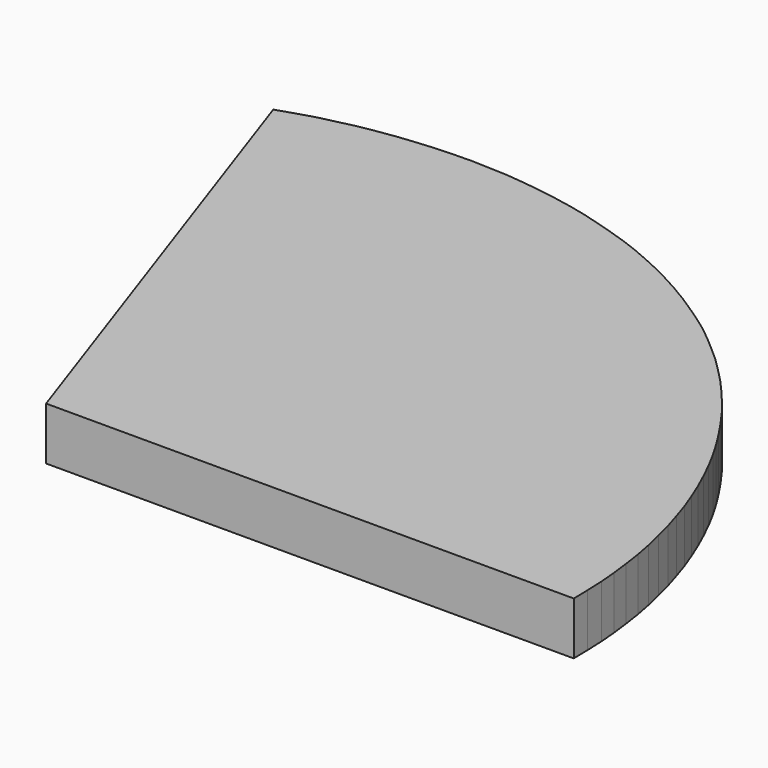
from build123d import *

# Parameters (mm, degrees)
PAD_DEPTH = 5


with BuildPart() as part:
    # Sketch006 → Pad (new body)
    with BuildSketch(Plane.XY):
        with BuildLine():
            add(Edge.make_bspline(
                [(285.84324, -421.092099), (335.83185, -421.092099)],
                knots=[0, 0, 141.7, 141.7], degree=1))
            add(Edge.make_bspline(
                [(335.796573, -419.398766), (335.83185, -421.092099)],
                knots=[0, 0, 4.801042, 4.801042], degree=1))
            add(Edge.make_bspline(
                [(335.726017, -417.670155), (335.796573, -419.398766)],
                knots=[0, 0, 4.90408, 4.90408], degree=1))
            add(Edge.make_bspline(
                [(335.584906, -416.012099), (335.726017, -417.670155)],
                knots=[0, 0, 4.716991, 4.716991], degree=1))
            add(Edge.make_bspline(
                [(335.373239, -414.318766), (335.584906, -416.012099)],
                knots=[0, 0, 4.837355, 4.837355], degree=1))
            add(Edge.make_bspline(
                [(335.126295, -412.625433), (335.373239, -414.318766)],
                knots=[0, 0, 4.850773, 4.850773], degree=1))
            add(Edge.make_bspline(
                [(334.808795, -410.967377), (335.126295, -412.625433)],
                knots=[0, 0, 4.785394, 4.785394], degree=1))
            add(Edge.make_bspline(
                [(334.420739, -409.309322), (334.808795, -410.967377)],
                knots=[0, 0, 4.827007, 4.827007], degree=1))
            add(Edge.make_bspline(
                [(333.997406, -407.651266), (334.420739, -409.309322)],
                knots=[0, 0, 4.850773, 4.850773], degree=1))
            add(Edge.make_bspline(
                [(333.503517, -406.028489), (333.997406, -407.651266)],
                knots=[0, 0, 4.808326, 4.808326], degree=1))
            add(Edge.make_bspline(
                [(332.974351, -404.405711), (333.503517, -406.028489)],
                knots=[0, 0, 4.838388, 4.838388], degree=1))
            add(Edge.make_bspline(
                [(332.374628, -402.818211), (332.974351, -404.405711)],
                knots=[0, 0, 4.810405, 4.810405], degree=1))
            add(Edge.make_bspline(
                [(331.739628, -401.265989), (332.374628, -402.818211)],
                knots=[0, 0, 4.753946, 4.753946], degree=1))
            add(Edge.make_bspline(
                [(331.034073, -399.713766), (331.739628, -401.265989)],
                knots=[0, 0, 4.833218, 4.833218], degree=1))
            add(Edge.make_bspline(
                [(330.293239, -398.196822), (331.034073, -399.713766)],
                knots=[0, 0, 4.785394, 4.785394], degree=1))
            add(Edge.make_bspline(
                [(329.481851, -396.679878), (330.293239, -398.196822)],
                knots=[0, 0, 4.876474, 4.876474], degree=1))
            add(Edge.make_bspline(
                [(328.635184, -395.233489), (329.481851, -396.679878)],
                knots=[0, 0, 4.750789, 4.750789], degree=1))
            add(Edge.make_bspline(
                [(327.717962, -393.7871), (328.635184, -395.233489)],
                knots=[0, 0, 4.854894, 4.854894], degree=1))
            add(Edge.make_bspline(
                [(326.765462, -392.375989), (327.717962, -393.7871)],
                knots=[0, 0, 4.825971, 4.825971], degree=1))
            add(Edge.make_bspline(
                [(325.777684, -391.000156), (326.765462, -392.375989)],
                knots=[0, 0, 4.801042, 4.801042], degree=1))
            add(Edge.make_bspline(
                [(324.719351, -389.6596), (325.777684, -391.000156)],
                knots=[0, 0, 4.841487, 4.841487], degree=1))
            add(Edge.make_bspline(
                [(323.62574, -388.354322), (324.719351, -389.6596)],
                knots=[0, 0, 4.827007, 4.827007], degree=1))
            add(Edge.make_bspline(
                [(322.496851, -387.084322), (323.62574, -388.354322)],
                knots=[0, 0, 4.816638, 4.816638], degree=1))
            add(Edge.make_bspline(
                [(321.332684, -385.884878), (322.496851, -387.084322)],
                knots=[0, 0, 4.738143, 4.738143], degree=1))
            add(Edge.make_bspline(
                [(320.13324, -384.685433), (321.332684, -385.884878)],
                knots=[0, 0, 4.808326, 4.808326], degree=1))
            add(Edge.make_bspline(
                [(318.86324, -383.556545), (320.13324, -384.685433)],
                knots=[0, 0, 4.816638, 4.816638], degree=1))
            add(Edge.make_bspline(
                [(317.557962, -382.427656), (318.86324, -383.556545)],
                knots=[0, 0, 4.89183, 4.89183], degree=1))
            add(Edge.make_bspline(
                [(316.252684, -381.369322), (317.557962, -382.427656)],
                knots=[0, 0, 4.763402, 4.763402], degree=1))
            add(Edge.make_bspline(
                [(314.876851, -380.381545), (316.252684, -381.369322)],
                knots=[0, 0, 4.801042, 4.801042], degree=1))
            add(Edge.make_bspline(
                [(313.46574, -379.429045), (314.876851, -380.381545)],
                knots=[0, 0, 4.825971, 4.825971], degree=1))
            add(Edge.make_bspline(
                [(312.054629, -378.511822), (313.46574, -379.429045)],
                knots=[0, 0, 4.770744, 4.770744], degree=1))
            add(Edge.make_bspline(
                [(310.572962, -377.629878), (312.054629, -378.511822)],
                knots=[0, 0, 4.88774, 4.88774], degree=1))
            add(Edge.make_bspline(
                [(309.091295, -376.818489), (310.572962, -377.629878)],
                knots=[0, 0, 4.788528, 4.788528], degree=1))
            add(Edge.make_bspline(
                [(307.574351, -376.042378), (309.091295, -376.818489)],
                knots=[0, 0, 4.830114, 4.830114], degree=1))
            add(Edge.make_bspline(
                [(306.022129, -375.336823), (307.574351, -376.042378)],
                knots=[0, 0, 4.833218, 4.833218], degree=1))
            add(Edge.make_bspline(
                [(304.469907, -374.666545), (306.022129, -375.336823)],
                knots=[0, 0, 4.792703, 4.792703], degree=1))
            add(Edge.make_bspline(
                [(302.882407, -374.066823), (304.469907, -374.666545)],
                knots=[0, 0, 4.810405, 4.810405], degree=1))
            add(Edge.make_bspline(
                [(301.259629, -373.537656), (302.882407, -374.066823)],
                knots=[0, 0, 4.838388, 4.838388], degree=1))
            add(Edge.make_bspline(
                [(299.636851, -373.043767), (301.259629, -373.537656)],
                knots=[0, 0, 4.808326, 4.808326], degree=1))
            add(Edge.make_bspline(
                [(298.014074, -372.585156), (299.636851, -373.043767)],
                knots=[0, 0, 4.780167, 4.780167], degree=1))
            add(Edge.make_bspline(
                [(296.356018, -372.1971), (298.014074, -372.585156)],
                knots=[0, 0, 4.827007, 4.827007], degree=1))
            add(Edge.make_bspline(
                [(294.697962, -371.8796), (296.356018, -372.1971)],
                knots=[0, 0, 4.785394, 4.785394], degree=1))
            add(Edge.make_bspline(
                [(293.004629, -371.597378), (294.697962, -371.8796)],
                knots=[0, 0, 4.86621, 4.86621], degree=1))
            add(Edge.make_bspline(
                [(291.311296, -371.385712), (293.004629, -371.597378)],
                knots=[0, 0, 4.837355, 4.837355], degree=1))
            add(Edge.make_bspline(
                [(289.617963, -371.209323), (291.311296, -371.385712)],
                knots=[0, 0, 4.825971, 4.825971], degree=1))
            add(Edge.make_bspline(
                [(287.924629, -371.138767), (289.617963, -371.209323)],
                knots=[0, 0, 4.804165, 4.804165], degree=1))
            add(Edge.make_bspline(
                [(286.231296, -371.068212), (287.924629, -371.138767)],
                knots=[0, 0, 4.804165, 4.804165], degree=1))
            add(Edge.make_bspline(
                [(284.537963, -371.103489), (286.231296, -371.068212)],
                knots=[0, 0, 4.801042, 4.801042], degree=1))
            add(Edge.make_bspline(
                [(282.844629, -371.174045), (284.537963, -371.103489)],
                knots=[0, 0, 4.804165, 4.804165], degree=1))
            add(Edge.make_bspline(
                [(281.151296, -371.315156), (282.844629, -371.174045)],
                knots=[0, 0, 4.816638, 4.816638], degree=1))
            add(Edge.make_bspline(
                [(279.457963, -371.491545), (281.151296, -371.315156)],
                knots=[0, 0, 4.825971, 4.825971], degree=1))
            add(Edge.make_bspline(
                [(277.76463, -371.738489), (279.457963, -371.491545)],
                knots=[0, 0, 4.850773, 4.850773], degree=1))
            add(Edge.make_bspline(
                [(276.106574, -372.020711), (277.76463, -371.738489)],
                knots=[0, 0, 4.767599, 4.767599], degree=1))
            add(Edge.make_bspline(
                [(274.448518, -372.408767), (276.106574, -372.020711)],
                knots=[0, 0, 4.827007, 4.827007], degree=1))
            add(Edge.make_bspline(
                [(272.790463, -372.796823), (274.448518, -372.408767)],
                knots=[0, 0, 4.827007, 4.827007], degree=1))
            add(Edge.make_bspline(
                [(271.167685, -373.290711), (272.790463, -372.796823)],
                knots=[0, 0, 4.808326, 4.808326], degree=1))
            add(Edge.make_bspline(
                [(269.544907, -373.819878), (271.167685, -373.290711)],
                knots=[0, 0, 4.838388, 4.838388], degree=1))
            add(Edge.make_bspline(
                [(285.84324, -421.092099), (269.544907, -373.819878)],
                knots=[0, 0, 141.740749, 141.740749], degree=1))
        make_face()
    extrude(amount=PAD_DEPTH)


solid = part.part
